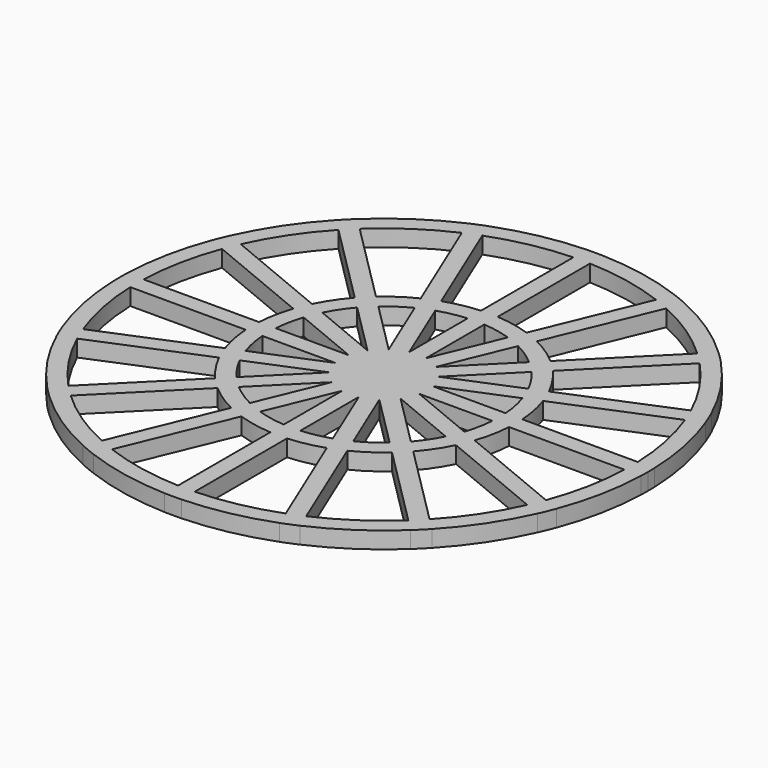
from build123d import *

# Parameters (mm, degrees)
F2_DEPTH = 3


with BuildPart() as f2:
    # F1 (on Top) → F2 (new body)
    with BuildSketch(Plane.XY):
        with BuildLine():
            ThreePointArc((-17.8209182247, 15.6995978811), (-16.7937860532, 16.7937860532), (-15.6995978811, 17.8209182247))
            Line((-15.6995978811, 17.8209182247), (-30.3877102153, 32.5090305588))
            ThreePointArc((-30.3877102153, 32.5090305588), (-31.4662517628, 31.4662517628), (-32.5090305588, 30.3877102153))
            Line((-32.5090305588, 30.3877102153), (-17.8209182247, 15.6995978811))
        make_face()
        with BuildLine():
            ThreePointArc((-15.6947385507, 13.5734182071), (-14.6724657096, 14.6724657096), (-13.5734182071, 15.6947385507))
            Line((-13.5734182071, 15.6947385507), (-15.6995978811, 17.8209182247))
            ThreePointArc((-15.6995978811, 17.8209182247), (-16.7937860532, 16.7937860532), (-17.8209182247, 15.6995978811))
            Line((-17.8209182247, 15.6995978811), (-15.6947385507, 13.5734182071))
        make_face()
        with BuildLine():
            ThreePointArc((-6.3929589411, 4.2716385975), (-5.4367646781, 5.4367646781), (-4.2716385975, 6.3929589411))
            Line((-4.2716385975, 6.3929589411), (-13.5734182071, 15.6947385507))
            ThreePointArc((-13.5734182071, 15.6947385507), (-14.6724657096, 14.6724657096), (-15.6947385507, 13.5734182071))
            Line((-15.6947385507, 13.5734182071), (-6.3929589411, 4.2716385975))
        make_face()
        with BuildLine():
            Line((-1.5, 3.6213203436), (-1.5, 7.5410092382))
            ThreePointArc((-1.5, 7.5410092382), (-2.9423558412, 7.1034753772), (-4.2716385975, 6.3929589411))
            Line((-4.2716385975, 6.3929589411), (-1.5, 3.6213203436))
        make_face()
        Polygon((3.6213203436, 1.5), (6.3929589411, 4.2716385975), (2.7716385975, 2.7716385975), (2.244908644, 1.5), align=None)
        Polygon((-1.5, -1.5), (-1.5, -2.244908644), (-0.8117941502, -1.9598444473), (-1.0022679569, -1.5), align=None)
        Polygon((-1.7693706407, -0.3519497029), (-1.9598444473, -0.8117941502), (-1.5, -1.0022679569), (-1.5, -0.6213203436), align=None)
        with BuildLine():
            ThreePointArc((-6.3929589411, -4.2716385975), (-5.4367646781, -5.4367646781), (-4.2716385975, -6.3929589411))
            Line((-4.2716385975, -6.3929589411), (-2.7716385975, -2.7716385975))
            Line((-2.7716385975, -2.7716385975), (-6.3929589411, -4.2716385975))
        make_face()
        Polygon((-2.7716385975, 2.7716385975), (-6.3929589411, 4.2716385975), (-3.6213203436, 1.5), (-2.244908644, 1.5), align=None)
        Polygon((-2.1213203436, 0), (-2.6480502971, -0.5267299535), (-1.9598444473, -0.8117941502), (-1.7693706407, -0.3519497029), align=None)
        with BuildLine():
            ThreePointArc((-7.5410092382, -1.5), (-7.1034753772, -2.9423558412), (-6.3929589411, -4.2716385975))
            Line((-6.3929589411, -4.2716385975), (-3.6213203436, -1.5))
            Line((-3.6213203436, -1.5), (-7.5410092382, -1.5))
        make_face()
        Polygon((1.5, 1.5), (1.5, 2.244908644), (0.8117941502, 1.9598444473), (1.0022679569, 1.5), align=None)
        Polygon((-2.6480502971, -0.5267299535), (-3.6213203436, -1.5), (-2.244908644, -1.5), (-1.9598444473, -0.8117941502), align=None)
        Polygon((2.244908644, -1.5), (3.6213203436, -1.5), (2.6480502971, -0.5267299535), (1.9598444473, -0.8117941502), align=None)
        with BuildLine():
            Line((-3.9196888946, 0), (-7.5410092382, 1.5))
            ThreePointArc((-7.5410092382, 1.5), (-7.6887463432, 0), (-7.5410092382, -1.5))
            Line((-7.5410092382, -1.5), (-3.9196888946, 0))
        make_face()
        with BuildLine():
            Line((0, 3.9196888946), (1.5, 7.5410092382))
            ThreePointArc((1.5, 7.5410092382), (0, 7.6887463432), (-1.5, 7.5410092382))
            Line((-1.5, 7.5410092382), (0, 3.9196888946))
        make_face()
        Polygon((-3.9196888946, 0), (-7.5410092382, -1.5), (-3.6213203436, -1.5), (-2.6480502971, -0.5267299535), align=None)
        Polygon((0, -2.1213203436), (0.5267299535, -2.6480502971), (0.8117941502, -1.9598444473), (0.3519497029, -1.7693706407), align=None)
        Polygon((2.7716385975, -2.7716385975), (6.3929589411, -4.2716385975), (3.6213203436, -1.5), (2.244908644, -1.5), align=None)
        Polygon((-2.244908644, -1.5), (-2.7716385975, -2.7716385975), (-1.5, -2.244908644), (-1.5, -1.5), align=None)
        Polygon((0.5267299535, -2.6480502971), (1.5, -3.6213203436), (1.5, -2.244908644), (0.8117941502, -1.9598444473), align=None)
        Polygon((0, 2.1213203436), (-0.5267299535, 2.6480502971), (-0.8117941502, 1.9598444473), (-0.3519497029, 1.7693706407), align=None)
        Polygon((-0.5267299535, 2.6480502971), (-1.5, 3.6213203436), (-1.5, 2.244908644), (-0.8117941502, 1.9598444473), align=None)
        Polygon((2.244908644, 1.5), (2.7716385975, 2.7716385975), (1.5, 2.244908644), (1.5, 1.5), align=None)
        Polygon((1.5, 2.244908644), (1.5, 3.6213203436), (0.5267299535, 2.6480502971), (0.8117941502, 1.9598444473), align=None)
        Polygon((0.5267299535, 2.6480502971), (0, 3.9196888946), (-0.5267299535, 2.6480502971), (0, 2.1213203436), align=None)
        with BuildLine():
            ThreePointArc((7.6887463432, 0), (7.651722928, 0.7536289293), (7.5410092382, 1.5))
            Line((7.5410092382, 1.5), (3.9196888946, 0))
            Line((3.9196888946, 0), (7.5410092382, -1.5))
            ThreePointArc((7.5410092382, -1.5), (7.651722928, -0.7536289293), (7.6887463432, 0))
        make_face()
        Polygon((1.5, 3.6213203436), (1.5, 7.5410092382), (0, 3.9196888946), (0.5267299535, 2.6480502971), align=None)
        Polygon((3.9196888946, 0), (7.5410092382, 1.5), (3.6213203436, 1.5), (2.6480502971, 0.5267299535), align=None)
        Polygon((-0.3519497029, -1.7693706407), (0, -2.1213203436), (0.3519497029, -1.7693706407), (0, -1.6235883004), align=None)
        Polygon((-1.9598444473, -0.8117941502), (-2.244908644, -1.5), (-1.5, -1.5), (-1.5, -1.0022679569), align=None)
        Polygon((1.9598444473, -0.8117941502), (2.6480502971, -0.5267299535), (2.1213203436, 0), (1.7693706407, -0.3519497029), align=None)
        Polygon((-3.6213203436, 1.5), (-7.5410092382, 1.5), (-3.9196888946, 0), (-2.6480502971, 0.5267299535), align=None)
        Polygon((-1.5, 3.6213203436), (-4.2716385975, 6.3929589411), (-2.7716385975, 2.7716385975), (-1.5, 2.244908644), align=None)
        Polygon((0, 3.9196888946), (-1.5, 7.5410092382), (-1.5, 3.6213203436), (-0.5267299535, 2.6480502971), align=None)
        Polygon((1.5, 1.0022679569), (1.5, 1.5), (1.0022679569, 1.5), (1.1480502971, 1.1480502971), align=None)
        Polygon((1.5, -1.5), (2.244908644, -1.5), (1.9598444473, -0.8117941502), (1.5, -1.0022679569), align=None)
        with BuildLine():
            ThreePointArc((6.3929589411, -4.2716385975), (7.1034753772, -2.9423558412), (7.5410092382, -1.5))
            Line((7.5410092382, -1.5), (3.6213203436, -1.5))
            Line((3.6213203436, -1.5), (6.3929589411, -4.2716385975))
        make_face()
        with BuildLine():
            Line((1.5, 3.6213203436), (4.2716385975, 6.3929589411))
            ThreePointArc((4.2716385975, 6.3929589411), (2.9423558412, 7.1034753772), (1.5, 7.5410092382))
            Line((1.5, 7.5410092382), (1.5, 3.6213203436))
        make_face()
        Polygon((0.8117941502, -1.9598444473), (1.5, -2.244908644), (1.5, -1.5), (1.0022679569, -1.5), align=None)
        Polygon((-2.244908644, 1.5), (-3.6213203436, 1.5), (-2.6480502971, 0.5267299535), (-1.9598444473, 0.8117941502), align=None)
        Polygon((-1.5, 1.5), (-2.244908644, 1.5), (-1.9598444473, 0.8117941502), (-1.5, 1.0022679569), align=None)
        Polygon((2.6480502971, 0.5267299535), (3.6213203436, 1.5), (2.244908644, 1.5), (1.9598444473, 0.8117941502), align=None)
        with BuildLine():
            Line((2.7716385975, 2.7716385975), (6.3929589411, 4.2716385975))
            ThreePointArc((6.3929589411, 4.2716385975), (5.4367646781, 5.4367646781), (4.2716385975, 6.3929589411))
            Line((4.2716385975, 6.3929589411), (2.7716385975, 2.7716385975))
        make_face()
        Polygon((0, -3.9196888946), (1.5, -7.5410092382), (1.5, -3.6213203436), (0.5267299535, -2.6480502971), align=None)
        Polygon((2.7716385975, 2.7716385975), (4.2716385975, 6.3929589411), (1.5, 3.6213203436), (1.5, 2.244908644), align=None)
        Polygon((-0.8117941502, 1.9598444473), (-1.5, 2.244908644), (-1.5, 1.5), (-1.0022679569, 1.5), align=None)
        Polygon((-2.6480502971, 0.5267299535), (-3.9196888946, 0), (-2.6480502971, -0.5267299535), (-2.1213203436, 0), align=None)
        Polygon((-3.6213203436, -1.5), (-6.3929589411, -4.2716385975), (-2.7716385975, -2.7716385975), (-2.244908644, -1.5), align=None)
        with BuildLine():
            ThreePointArc((4.2716385975, -6.3929589411), (5.4367646781, -5.4367646781), (6.3929589411, -4.2716385975))
            Line((6.3929589411, -4.2716385975), (2.7716385975, -2.7716385975))
            Line((2.7716385975, -2.7716385975), (4.2716385975, -6.3929589411))
        make_face()
        with BuildLine():
            Line((3.6213203436, 1.5), (7.5410092382, 1.5))
            ThreePointArc((7.5410092382, 1.5), (7.1034753772, 2.9423558412), (6.3929589411, 4.2716385975))
            Line((6.3929589411, 4.2716385975), (3.6213203436, 1.5))
        make_face()
        Polygon((-1.5, 2.244908644), (-2.7716385975, 2.7716385975), (-2.244908644, 1.5), (-1.5, 1.5), align=None)
        with BuildLine():
            Line((-3.6213203436, 1.5), (-6.3929589411, 4.2716385975))
            ThreePointArc((-6.3929589411, 4.2716385975), (-7.1034753772, 2.9423558412), (-7.5410092382, 1.5))
            Line((-7.5410092382, 1.5), (-3.6213203436, 1.5))
        make_face()
        Polygon((3.6213203436, -1.5), (7.5410092382, -1.5), (3.9196888946, 0), (2.6480502971, -0.5267299535), align=None)
        Polygon((-2.7716385975, -2.7716385975), (-4.2716385975, -6.3929589411), (-1.5, -3.6213203436), (-1.5, -2.244908644), align=None)
        Polygon((1.7693706407, -0.3519497029), (2.1213203436, 0), (1.7693706407, 0.3519497029), (1.6235883004, 0), align=None)
        with BuildLine():
            ThreePointArc((1.5, -7.5410092382), (2.9423558412, -7.1034753772), (4.2716385975, -6.3929589411))
            Line((4.2716385975, -6.3929589411), (1.5, -3.6213203436))
            Line((1.5, -3.6213203436), (1.5, -7.5410092382))
        make_face()
        Polygon((1.7693706407, 0.3519497029), (1.9598444473, 0.8117941502), (1.5, 1.0022679569), (1.5, 0.6213203436), align=None)
        Polygon((-1.9598444473, 0.8117941502), (-2.6480502971, 0.5267299535), (-2.1213203436, 0), (-1.7693706407, 0.3519497029), align=None)
        Polygon((-1.5, -3.6213203436), (-1.5, -7.5410092382), (0, -3.9196888946), (-0.5267299535, -2.6480502971), align=None)
        Polygon((2.6480502971, -0.5267299535), (3.9196888946, 0), (2.6480502971, 0.5267299535), (2.1213203436, 0), align=None)
        Polygon((-1.5, 1.0022679569), (-1.9598444473, 0.8117941502), (-1.7693706407, 0.3519497029), (-1.5, 0.6213203436), align=None)
        with BuildLine():
            ThreePointArc((-1.5, -7.5410092382), (0, -7.6887463432), (1.5, -7.5410092382))
            Line((1.5, -7.5410092382), (0, -3.9196888946))
            Line((0, -3.9196888946), (-1.5, -7.5410092382))
        make_face()
        Polygon((1.5, -3.6213203436), (4.2716385975, -6.3929589411), (2.7716385975, -2.7716385975), (1.5, -2.244908644), align=None)
        Polygon((-1.5, -2.244908644), (-1.5, -3.6213203436), (-0.5267299535, -2.6480502971), (-0.8117941502, -1.9598444473), align=None)
        with BuildLine():
            Line((-2.7716385975, 2.7716385975), (-4.2716385975, 6.3929589411))
            ThreePointArc((-4.2716385975, 6.3929589411), (-5.4367646781, 5.4367646781), (-6.3929589411, 4.2716385975))
            Line((-6.3929589411, 4.2716385975), (-2.7716385975, 2.7716385975))
        make_face()
        Polygon((-0.3519497029, 1.7693706407), (-0.8117941502, 1.9598444473), (-1.0022679569, 1.5), (-0.6213203436, 1.5), align=None)
        Polygon((-0.5267299535, -2.6480502971), (0, -3.9196888946), (0.5267299535, -2.6480502971), (0, -2.1213203436), align=None)
        Polygon((2.1213203436, 0), (2.6480502971, 0.5267299535), (1.9598444473, 0.8117941502), (1.7693706407, 0.3519497029), align=None)
        Polygon((0.8117941502, 1.9598444473), (0.5267299535, 2.6480502971), (0, 2.1213203436), (0.3519497029, 1.7693706407), align=None)
        Polygon((1.5, -2.244908644), (2.7716385975, -2.7716385975), (2.244908644, -1.5), (1.5, -1.5), align=None)
        Polygon((1.9598444473, 0.8117941502), (2.244908644, 1.5), (1.5, 1.5), (1.5, 1.0022679569), align=None)
        with BuildLine():
            ThreePointArc((-4.2716385975, -6.3929589411), (-2.9423558412, -7.1034753772), (-1.5, -7.5410092382))
            Line((-1.5, -7.5410092382), (-1.5, -3.6213203436))
            Line((-1.5, -3.6213203436), (-4.2716385975, -6.3929589411))
        make_face()
        Polygon((-0.8117941502, -1.9598444473), (-0.5267299535, -2.6480502971), (0, -2.1213203436), (-0.3519497029, -1.7693706407), align=None)
        Polygon((-1.0022679569, 1.5), (-1.5, 1.5), (-1.5, 1.0022679569), (-1.1480502971, 1.1480502971), align=None)
        Polygon((1.5, -1.0022679569), (1.9598444473, -0.8117941502), (1.7693706407, -0.3519497029), (1.5, -0.6213203436), align=None)
        Polygon((-1.0022679569, -1.5), (-0.8117941502, -1.9598444473), (-0.3519497029, -1.7693706407), (-0.6213203436, -1.5), align=None)
        Polygon((1.3858192988, -0.5740251485), (1.5, -0.2983685511), (1.5, 0), (-1.5, 0), (-1.5, -0.2983685511), (-1.3858192988, -0.5740251485), (-1.2716385975, -0.849681746), (-1.0606601718, -1.0606601718), (-0.849681746, -1.2716385975), (-0.5740251485, -1.3858192988), (-0.2983685511, -1.5), (0, -1.5), (0.2983685511, -1.5), (0.5740251485, -1.3858192988), (0.849681746, -1.2716385975), (1.0606601718, -1.0606601718), (1.2716385975, -0.849681746), align=None)
        Polygon((0.3519497029, 1.7693706407), (0, 2.1213203436), (-0.3519497029, 1.7693706407), (0, 1.6235883004), align=None)
        Polygon((1.0022679569, -1.5), (1.5, -1.5), (1.5, -1.0022679569), (1.1480502971, -1.1480502971), align=None)
        Polygon((1.5, 0), (1.5, 0.2983685511), (1.3858192988, 0.5740251485), (1.2716385975, 0.849681746), (1.0606601718, 1.0606601718), (0.849681746, 1.2716385975), (0.5740251485, 1.3858192988), (0.2983685511, 1.5), (0, 1.5), (-0.2983685511, 1.5), (-0.5740251485, 1.3858192988), (-0.849681746, 1.2716385975), (-1.0606601718, 1.0606601718), (-1.2716385975, 0.849681746), (-1.3858192988, 0.5740251485), (-1.5, 0.2983685511), (-1.5, 0), align=None)
        Polygon((-1.5, -1.0022679569), (-1.5, -1.5), (-1.0022679569, -1.5), (-1.1480502971, -1.1480502971), align=None)
        Polygon((1.0022679569, 1.5), (0.8117941502, 1.9598444473), (0.3519497029, 1.7693706407), (0.6213203436, 1.5), align=None)
        Polygon((-1.7693706407, 0.3519497029), (-2.1213203436, 0), (-1.7693706407, -0.3519497029), (-1.6235883004, 0), align=None)
        Polygon((-1.2716385975, -0.849681746), (-1.1480502971, -1.1480502971), (-0.849681746, -1.2716385975), (-1.0606601718, -1.0606601718), align=None)
        Polygon((-0.2983685511, -1.5), (0, -1.6235883004), (0.2983685511, -1.5), (0, -1.5), align=None)
        Polygon((0.3519497029, -1.7693706407), (0.8117941502, -1.9598444473), (1.0022679569, -1.5), (0.6213203436, -1.5), align=None)
        Polygon((0.2983685511, 1.5), (0, 1.6235883004), (-0.2983685511, 1.5), (0, 1.5), align=None)
        Polygon((1.2716385975, 0.849681746), (1.1480502971, 1.1480502971), (0.849681746, 1.2716385975), (1.0606601718, 1.0606601718), align=None)
        Polygon((0, -1.6235883004), (0.3519497029, -1.7693706407), (0.6213203436, -1.5), (0.2983685511, -1.5), align=None)
        Polygon((-0.2983685511, 1.5), (-0.6213203436, 1.5), (-0.849681746, 1.2716385975), (-0.5740251485, 1.3858192988), align=None)
        Polygon((0.6213203436, -1.5), (1.0022679569, -1.5), (1.1480502971, -1.1480502971), (0.849681746, -1.2716385975), align=None)
        Polygon((-0.6213203436, 1.5), (-1.0022679569, 1.5), (-1.1480502971, 1.1480502971), (-0.849681746, 1.2716385975), align=None)
        Polygon((-1.5, -0.6213203436), (-1.5, -1.0022679569), (-1.1480502971, -1.1480502971), (-1.2716385975, -0.849681746), align=None)
        Polygon((-1.2716385975, 0.849681746), (-1.5, 0.6213203436), (-1.5, 0.2983685511), (-1.3858192988, 0.5740251485), align=None)
        Polygon((1.5, 0.2983685511), (1.5, 0.6213203436), (1.2716385975, 0.849681746), (1.3858192988, 0.5740251485), align=None)
        Polygon((1.2716385975, -0.849681746), (1.5, -0.6213203436), (1.5, -0.2983685511), (1.3858192988, -0.5740251485), align=None)
        Polygon((-0.6213203436, -1.5), (-0.3519497029, -1.7693706407), (0, -1.6235883004), (-0.2983685511, -1.5), align=None)
        Polygon((1.1480502971, -1.1480502971), (1.5, -1.0022679569), (1.5, -0.6213203436), (1.2716385975, -0.849681746), align=None)
        Polygon((-1.1480502971, 1.1480502971), (-1.5, 1.0022679569), (-1.5, 0.6213203436), (-1.2716385975, 0.849681746), align=None)
        Polygon((1.1480502971, 1.1480502971), (1.0022679569, 1.5), (0.6213203436, 1.5), (0.849681746, 1.2716385975), align=None)
        Polygon((0.849681746, -1.2716385975), (1.1480502971, -1.1480502971), (1.2716385975, -0.849681746), (1.0606601718, -1.0606601718), align=None)
        Polygon((-0.849681746, -1.2716385975), (-0.6213203436, -1.5), (-0.2983685511, -1.5), (-0.5740251485, -1.3858192988), align=None)
        Polygon((0, 1.6235883004), (-0.3519497029, 1.7693706407), (-0.6213203436, 1.5), (-0.2983685511, 1.5), align=None)
        Polygon((-0.849681746, 1.2716385975), (-1.1480502971, 1.1480502971), (-1.2716385975, 0.849681746), (-1.0606601718, 1.0606601718), align=None)
        Polygon((1.5, 0.6213203436), (1.5, 1.0022679569), (1.1480502971, 1.1480502971), (1.2716385975, 0.849681746), align=None)
        Polygon((-1.1480502971, -1.1480502971), (-1.0022679569, -1.5), (-0.6213203436, -1.5), (-0.849681746, -1.2716385975), align=None)
        Polygon((0.2983685511, -1.5), (0.6213203436, -1.5), (0.849681746, -1.2716385975), (0.5740251485, -1.3858192988), align=None)
        Polygon((0.849681746, 1.2716385975), (0.6213203436, 1.5), (0.2983685511, 1.5), (0.5740251485, 1.3858192988), align=None)
        Polygon((-1.5, -0.6213203436), (-1.5, -0.2983685511), (-1.6235883004, 0), (-1.7693706407, -0.3519497029), align=None)
        Polygon((0.6213203436, 1.5), (0.3519497029, 1.7693706407), (0, 1.6235883004), (0.2983685511, 1.5), align=None)
        Polygon((-1.5, -0.2983685511), (-1.5, 0), (-1.5, 0.2983685511), (-1.6235883004, 0), align=None)
        Polygon((1.5, -0.6213203436), (1.7693706407, -0.3519497029), (1.6235883004, 0), (1.5, -0.2983685511), align=None)
        Polygon((-1.3858192988, -0.5740251485), (-1.5, -0.2983685511), (-1.5, -0.6213203436), (-1.2716385975, -0.849681746), align=None)
        Polygon((1.6235883004, 0), (1.7693706407, 0.3519497029), (1.5, 0.6213203436), (1.5, 0.2983685511), align=None)
        Polygon((-1.5, 0.6213203436), (-1.7693706407, 0.3519497029), (-1.6235883004, 0), (-1.5, 0.2983685511), align=None)
        Polygon((1.5, -0.2983685511), (1.6235883004, 0), (1.5, 0.2983685511), (1.5, 0), align=None)
        with BuildLine():
            ThreePointArc((-4.2716385975, 6.3929589411), (-2.9423558412, 7.1034753772), (-1.5, 7.5410092382))
            Line((-1.5, 7.5410092382), (-6.5340868491, 19.6943699835))
            ThreePointArc((-6.5340868491, 19.6943699835), (-7.9406812216, 19.1705002996), (-9.3057254467, 18.5463196864))
            Line((-9.3057254467, 18.5463196864), (-4.2716385975, 6.3929589411))
        make_face()
        with BuildLine():
            ThreePointArc((-9.3057254467, 18.5463196864), (-7.9406812216, 19.1705002996), (-6.5340868491, 19.6943699835))
            Line((-6.5340868491, 19.6943699835), (-7.6847669969, 22.4723576022))
            ThreePointArc((-7.6847669969, 22.4723576022), (-9.0887315187, 21.9421388971), (-10.4564055944, 21.3243073052))
            Line((-10.4564055944, 21.3243073052), (-9.3057254467, 18.5463196864))
        make_face()
        with BuildLine():
            Line((-7.6847669969, 22.4723576022), (-15.6339161106, 41.663301202))
            ThreePointArc((-15.6339161106, 41.663301202), (-17.0294127402, 41.1126391968), (-18.4055547082, 40.5152509049))
            Line((-18.4055547082, 40.5152509049), (-10.4564055944, 21.3243073052))
            ThreePointArc((-10.4564055944, 21.3243073052), (-9.0887315187, 21.9421388971), (-7.6847669969, 22.4723576022))
        make_face()
        with BuildLine():
            Line((1.5, 23.7025842473), (1.5, 44.4747119159))
            ThreePointArc((1.5, 44.4747119159), (0, 44.5), (-1.5, 44.4747119159))
            Line((-1.5, 44.4747119159), (-1.5, 23.7025842473))
            ThreePointArc((-1.5, 23.7025842473), (0, 23.75), (1.5, 23.7025842473))
        make_face()
        with BuildLine():
            ThreePointArc((-1.5, 20.6957121163), (0, 20.75), (1.5, 20.6957121163))
            Line((1.5, 20.6957121163), (1.5, 23.7025842473))
            ThreePointArc((1.5, 23.7025842473), (0, 23.75), (-1.5, 23.7025842473))
            Line((-1.5, 23.7025842473), (-1.5, 20.6957121163))
        make_face()
        with BuildLine():
            ThreePointArc((1.5, 7.5410092382), (2.9423558412, 7.1034753772), (4.2716385975, 6.3929589411))
            Line((4.2716385975, 6.3929589411), (9.3057254467, 18.5463196864))
            ThreePointArc((9.3057254467, 18.5463196864), (7.9406812216, 19.1705002996), (6.5340868491, 19.6943699835))
            Line((6.5340868491, 19.6943699835), (1.5, 7.5410092382))
        make_face()
        with BuildLine():
            Line((9.3057254467, 18.5463196864), (10.4564055944, 21.3243073052))
            ThreePointArc((10.4564055944, 21.3243073052), (9.0887315187, 21.9421388971), (7.6847669969, 22.4723576022))
            Line((7.6847669969, 22.4723576022), (6.5340868491, 19.6943699835))
            ThreePointArc((6.5340868491, 19.6943699835), (7.9406812216, 19.1705002996), (9.3057254467, 18.5463196864))
        make_face()
        with BuildLine():
            Line((15.6947385507, 13.5734182071), (17.8209182247, 15.6995978811))
            ThreePointArc((17.8209182247, 15.6995978811), (16.7937860532, 16.7937860532), (15.6995978811, 17.8209182247))
            Line((15.6995978811, 17.8209182247), (13.5734182071, 15.6947385507))
            ThreePointArc((13.5734182071, 15.6947385507), (14.6724657096, 14.6724657096), (15.6947385507, 13.5734182071))
        make_face()
        with BuildLine():
            ThreePointArc((4.2716385975, 6.3929589411), (5.4367646781, 5.4367646781), (6.3929589411, 4.2716385975))
            Line((6.3929589411, 4.2716385975), (15.6947385507, 13.5734182071))
            ThreePointArc((15.6947385507, 13.5734182071), (14.6724657096, 14.6724657096), (13.5734182071, 15.6947385507))
            Line((13.5734182071, 15.6947385507), (4.2716385975, 6.3929589411))
        make_face()
        with BuildLine():
            Line((19.6943699835, 6.5340868491), (22.4723576022, 7.6847669969))
            ThreePointArc((22.4723576022, 7.6847669969), (21.9421388971, 9.0887315187), (21.3243073052, 10.4564055944))
            Line((21.3243073052, 10.4564055944), (18.5463196864, 9.3057254467))
            ThreePointArc((18.5463196864, 9.3057254467), (19.1705002996, 7.9406812216), (19.6943699835, 6.5340868491))
        make_face()
        with BuildLine():
            Line((22.4723576022, 7.6847669969), (41.663301202, 15.6339161106))
            ThreePointArc((41.663301202, 15.6339161106), (41.1126391968, 17.0294127402), (40.5152509049, 18.4055547082))
            Line((40.5152509049, 18.4055547082), (21.3243073052, 10.4564055944))
            ThreePointArc((21.3243073052, 10.4564055944), (21.9421388971, 9.0887315187), (22.4723576022, 7.6847669969))
        make_face()
        with BuildLine():
            Line((7.5410092382, 1.5), (19.6943699835, 6.5340868491))
            ThreePointArc((19.6943699835, 6.5340868491), (19.1705002996, 7.9406812216), (18.5463196864, 9.3057254467))
            Line((18.5463196864, 9.3057254467), (6.3929589411, 4.2716385975))
            ThreePointArc((6.3929589411, 4.2716385975), (7.1034753772, 2.9423558412), (7.5410092382, 1.5))
        make_face()
        with BuildLine():
            ThreePointArc((23.75, 0), (23.7381431021, 0.7503746154), (23.7025842473, 1.5))
            Line((23.7025842473, 1.5), (20.6957121163, 1.5))
            ThreePointArc((20.6957121163, 1.5), (20.7364235876, 0.750491035), (20.75, 0))
            ThreePointArc((20.75, 0), (20.7364235876, -0.750491035), (20.6957121163, -1.5))
            Line((20.6957121163, -1.5), (23.7025842473, -1.5))
            ThreePointArc((23.7025842473, -1.5), (23.7381431021, -0.7503746154), (23.75, 0))
        make_face()
        with BuildLine():
            ThreePointArc((44.5, 0), (44.4936775298, 0.7501065736), (44.4747119159, 1.5))
            Line((44.4747119159, 1.5), (23.7025842473, 1.5))
            ThreePointArc((23.7025842473, 1.5), (23.7381431021, 0.7503746154), (23.75, 0))
            ThreePointArc((23.75, 0), (23.7381431021, -0.7503746154), (23.7025842473, -1.5))
            Line((23.7025842473, -1.5), (44.4747119159, -1.5))
            ThreePointArc((44.4747119159, -1.5), (44.4936775298, -0.7501065736), (44.5, 0))
        make_face()
        with BuildLine():
            ThreePointArc((20.75, 0), (20.7364235876, 0.750491035), (20.6957121163, 1.5))
            Line((20.6957121163, 1.5), (7.5410092382, 1.5))
            ThreePointArc((7.5410092382, 1.5), (7.651722928, 0.7536289293), (7.6887463432, 0))
            ThreePointArc((7.6887463432, 0), (7.651722928, -0.7536289293), (7.5410092382, -1.5))
            Line((7.5410092382, -1.5), (20.6957121163, -1.5))
            ThreePointArc((20.6957121163, -1.5), (20.7364235876, -0.750491035), (20.75, 0))
        make_face()
        with BuildLine():
            ThreePointArc((18.5463196864, -9.3057254467), (19.1705002996, -7.9406812216), (19.6943699835, -6.5340868491))
            Line((19.6943699835, -6.5340868491), (7.5410092382, -1.5))
            ThreePointArc((7.5410092382, -1.5), (7.1034753772, -2.9423558412), (6.3929589411, -4.2716385975))
            Line((6.3929589411, -4.2716385975), (18.5463196864, -9.3057254467))
        make_face()
        with BuildLine():
            ThreePointArc((21.3243073052, -10.4564055944), (21.9421388971, -9.0887315187), (22.4723576022, -7.6847669969))
            Line((22.4723576022, -7.6847669969), (19.6943699835, -6.5340868491))
            ThreePointArc((19.6943699835, -6.5340868491), (19.1705002996, -7.9406812216), (18.5463196864, -9.3057254467))
            Line((18.5463196864, -9.3057254467), (21.3243073052, -10.4564055944))
        make_face()
        with BuildLine():
            ThreePointArc((40.5152509049, -18.4055547082), (41.1126391968, -17.0294127402), (41.663301202, -15.6339161106))
            Line((41.663301202, -15.6339161106), (22.4723576022, -7.6847669969))
            ThreePointArc((22.4723576022, -7.6847669969), (21.9421388971, -9.0887315187), (21.3243073052, -10.4564055944))
            Line((21.3243073052, -10.4564055944), (40.5152509049, -18.4055547082))
        make_face()
        with BuildLine():
            ThreePointArc((30.3877102153, -32.5090305588), (31.4662517628, -31.4662517628), (32.5090305588, -30.3877102153))
            Line((32.5090305588, -30.3877102153), (17.8209182247, -15.6995978811))
            ThreePointArc((17.8209182247, -15.6995978811), (16.7937860532, -16.7937860532), (15.6995978811, -17.8209182247))
            Line((15.6995978811, -17.8209182247), (30.3877102153, -32.5090305588))
        make_face()
        with BuildLine():
            ThreePointArc((15.6995978811, -17.8209182247), (16.7937860532, -16.7937860532), (17.8209182247, -15.6995978811))
            Line((17.8209182247, -15.6995978811), (15.6947385507, -13.5734182071))
            ThreePointArc((15.6947385507, -13.5734182071), (14.6724657096, -14.6724657096), (13.5734182071, -15.6947385507))
            Line((13.5734182071, -15.6947385507), (15.6995978811, -17.8209182247))
        make_face()
        with BuildLine():
            Line((15.6947385507, -13.5734182071), (6.3929589411, -4.2716385975))
            ThreePointArc((6.3929589411, -4.2716385975), (5.4367646781, -5.4367646781), (4.2716385975, -6.3929589411))
            Line((4.2716385975, -6.3929589411), (13.5734182071, -15.6947385507))
            ThreePointArc((13.5734182071, -15.6947385507), (14.6724657096, -14.6724657096), (15.6947385507, -13.5734182071))
        make_face()
        with BuildLine():
            Line((9.3057254467, -18.5463196864), (4.2716385975, -6.3929589411))
            ThreePointArc((4.2716385975, -6.3929589411), (2.9423558412, -7.1034753772), (1.5, -7.5410092382))
            Line((1.5, -7.5410092382), (6.5340868491, -19.6943699835))
            ThreePointArc((6.5340868491, -19.6943699835), (7.9406812216, -19.1705002996), (9.3057254467, -18.5463196864))
        make_face()
        with BuildLine():
            ThreePointArc((7.6847669969, -22.4723576022), (9.0887315187, -21.9421388971), (10.4564055944, -21.3243073052))
            Line((10.4564055944, -21.3243073052), (9.3057254467, -18.5463196864))
            ThreePointArc((9.3057254467, -18.5463196864), (7.9406812216, -19.1705002996), (6.5340868491, -19.6943699835))
            Line((6.5340868491, -19.6943699835), (7.6847669969, -22.4723576022))
        make_face()
        with BuildLine():
            ThreePointArc((15.6339161106, -41.663301202), (17.0294127402, -41.1126391968), (18.4055547082, -40.5152509049))
            Line((18.4055547082, -40.5152509049), (10.4564055944, -21.3243073052))
            ThreePointArc((10.4564055944, -21.3243073052), (9.0887315187, -21.9421388971), (7.6847669969, -22.4723576022))
            Line((7.6847669969, -22.4723576022), (15.6339161106, -41.663301202))
        make_face()
        with BuildLine():
            ThreePointArc((-1.5, -44.4747119159), (0, -44.5), (1.5, -44.4747119159))
            Line((1.5, -44.4747119159), (1.5, -23.7025842473))
            ThreePointArc((1.5, -23.7025842473), (0, -23.75), (-1.5, -23.7025842473))
            Line((-1.5, -23.7025842473), (-1.5, -44.4747119159))
        make_face()
        with BuildLine():
            Line((1.5, -23.7025842473), (1.5, -20.6957121163))
            ThreePointArc((1.5, -20.6957121163), (0, -20.75), (-1.5, -20.6957121163))
            Line((-1.5, -20.6957121163), (-1.5, -23.7025842473))
            ThreePointArc((-1.5, -23.7025842473), (0, -23.75), (1.5, -23.7025842473))
        make_face()
        with BuildLine():
            Line((1.5, -20.6957121163), (1.5, -7.5410092382))
            ThreePointArc((1.5, -7.5410092382), (0, -7.6887463432), (-1.5, -7.5410092382))
            Line((-1.5, -7.5410092382), (-1.5, -20.6957121163))
            ThreePointArc((-1.5, -20.6957121163), (0, -20.75), (1.5, -20.6957121163))
        make_face()
        with BuildLine():
            Line((-6.5340868491, -19.6943699835), (-1.5, -7.5410092382))
            ThreePointArc((-1.5, -7.5410092382), (-2.9423558412, -7.1034753772), (-4.2716385975, -6.3929589411))
            Line((-4.2716385975, -6.3929589411), (-9.3057254467, -18.5463196864))
            ThreePointArc((-9.3057254467, -18.5463196864), (-7.9406812216, -19.1705002996), (-6.5340868491, -19.6943699835))
        make_face()
        with BuildLine():
            Line((-7.6847669969, -22.4723576022), (-6.5340868491, -19.6943699835))
            ThreePointArc((-6.5340868491, -19.6943699835), (-7.9406812216, -19.1705002996), (-9.3057254467, -18.5463196864))
            Line((-9.3057254467, -18.5463196864), (-10.4564055944, -21.3243073052))
            ThreePointArc((-10.4564055944, -21.3243073052), (-9.0887315187, -21.9421388971), (-7.6847669969, -22.4723576022))
        make_face()
        with BuildLine():
            ThreePointArc((-19.5542165204, -43.2883658305), (-18.1774630373, -43.8842777943), (-16.7825779229, -44.4364161276))
            Line((-16.7825779229, -44.4364161276), (-15.6339161106, -41.663301202))
            ThreePointArc((-15.6339161106, -41.663301202), (-17.0294127402, -41.1126391968), (-18.4055547082, -40.5152509049))
            Line((-18.4055547082, -40.5152509049), (-19.5542165204, -43.2883658305))
        make_face()
        with BuildLine():
            ThreePointArc((-34.631480835, -32.5101604914), (-33.5875721064, -33.5875721064), (-32.5101604914, -34.631480835))
            Line((-32.5101604914, -34.631480835), (-30.3877102153, -32.5090305588))
            ThreePointArc((-30.3877102153, -32.5090305588), (-31.4662517628, -31.4662517628), (-32.5090305588, -30.3877102153))
            Line((-32.5090305588, -30.3877102153), (-34.631480835, -32.5101604914))
        make_face()
        with BuildLine():
            Line((-30.3877102153, -32.5090305588), (-15.6995978811, -17.8209182247))
            ThreePointArc((-15.6995978811, -17.8209182247), (-16.7937860532, -16.7937860532), (-17.8209182247, -15.6995978811))
            Line((-17.8209182247, -15.6995978811), (-32.5090305588, -30.3877102153))
            ThreePointArc((-32.5090305588, -30.3877102153), (-31.4662517628, -31.4662517628), (-30.3877102153, -32.5090305588))
        make_face()
        with BuildLine():
            Line((-15.6995978811, -17.8209182247), (-13.5734182071, -15.6947385507))
            ThreePointArc((-13.5734182071, -15.6947385507), (-14.6724657096, -14.6724657096), (-15.6947385507, -13.5734182071))
            Line((-15.6947385507, -13.5734182071), (-17.8209182247, -15.6995978811))
            ThreePointArc((-17.8209182247, -15.6995978811), (-16.7937860532, -16.7937860532), (-15.6995978811, -17.8209182247))
        make_face()
        with BuildLine():
            Line((-13.5734182071, -15.6947385507), (-4.2716385975, -6.3929589411))
            ThreePointArc((-4.2716385975, -6.3929589411), (-5.4367646781, -5.4367646781), (-6.3929589411, -4.2716385975))
            Line((-6.3929589411, -4.2716385975), (-15.6947385507, -13.5734182071))
            ThreePointArc((-15.6947385507, -13.5734182071), (-14.6724657096, -14.6724657096), (-13.5734182071, -15.6947385507))
        make_face()
        with BuildLine():
            ThreePointArc((-15.6947385507, -13.5734182071), (-17.2529944553, -11.5280823352), (-18.5463196864, -9.3057254467))
            Line((-18.5463196864, -9.3057254467), (-21.3243073052, -10.4564055944))
            ThreePointArc((-21.3243073052, -10.4564055944), (-19.7474032922, -13.1947930342), (-17.8209182247, -15.6995978811))
            Line((-17.8209182247, -15.6995978811), (-15.6947385507, -13.5734182071))
        make_face()
        with BuildLine():
            Line((-21.3243073052, -10.4564055944), (-18.5463196864, -9.3057254467))
            ThreePointArc((-18.5463196864, -9.3057254467), (-19.1705002996, -7.9406812216), (-19.6943699835, -6.5340868491))
            Line((-19.6943699835, -6.5340868491), (-22.4723576022, -7.6847669969))
            ThreePointArc((-22.4723576022, -7.6847669969), (-21.9421388971, -9.0887315187), (-21.3243073052, -10.4564055944))
        make_face()
        with BuildLine():
            ThreePointArc((-19.6943699835, -6.5340868491), (-20.3512945684, -4.0481241818), (-20.6957121163, -1.5))
            Line((-20.6957121163, -1.5), (-23.7025842473, -1.5))
            ThreePointArc((-23.7025842473, -1.5), (-23.2936504096, -4.6333951479), (-22.4723576022, -7.6847669969))
            Line((-22.4723576022, -7.6847669969), (-19.6943699835, -6.5340868491))
        make_face()
        with BuildLine():
            ThreePointArc((-20.6957121163, -1.5), (-20.75, 0), (-20.6957121163, 1.5))
            Line((-20.6957121163, 1.5), (-23.7025842473, 1.5))
            ThreePointArc((-23.7025842473, 1.5), (-23.75, 0), (-23.7025842473, -1.5))
            Line((-23.7025842473, -1.5), (-20.6957121163, -1.5))
        make_face()
        with BuildLine():
            ThreePointArc((-20.6957121163, 1.5), (-20.3512945684, 4.0481241818), (-19.6943699835, 6.5340868491))
            Line((-19.6943699835, 6.5340868491), (-22.4723576022, 7.6847669969))
            ThreePointArc((-22.4723576022, 7.6847669969), (-23.2936504096, 4.6333951479), (-23.7025842473, 1.5))
            Line((-23.7025842473, 1.5), (-20.6957121163, 1.5))
        make_face()
        with BuildLine():
            ThreePointArc((-19.6943699835, 6.5340868491), (-19.1705002996, 7.9406812216), (-18.5463196864, 9.3057254467))
            Line((-18.5463196864, 9.3057254467), (-21.3243073052, 10.4564055944))
            ThreePointArc((-21.3243073052, 10.4564055944), (-21.9421388971, 9.0887315187), (-22.4723576022, 7.6847669969))
            Line((-22.4723576022, 7.6847669969), (-19.6943699835, 6.5340868491))
        make_face()
        with BuildLine():
            ThreePointArc((-18.5463196864, 9.3057254467), (-17.2529944553, 11.5280823352), (-15.6947385507, 13.5734182071))
            Line((-15.6947385507, 13.5734182071), (-17.8209182247, 15.6995978811))
            ThreePointArc((-17.8209182247, 15.6995978811), (-19.7474032922, 13.1947930342), (-21.3243073052, 10.4564055944))
            Line((-21.3243073052, 10.4564055944), (-18.5463196864, 9.3057254467))
        make_face()
        with BuildLine():
            ThreePointArc((-13.5734182071, 15.6947385507), (-11.5280823352, 17.2529944553), (-9.3057254467, 18.5463196864))
            Line((-9.3057254467, 18.5463196864), (-10.4564055944, 21.3243073052))
            ThreePointArc((-10.4564055944, 21.3243073052), (-13.1947930342, 19.7474032922), (-15.6995978811, 17.8209182247))
            Line((-15.6995978811, 17.8209182247), (-13.5734182071, 15.6947385507))
        make_face()
        with BuildLine():
            ThreePointArc((-6.5340868491, 19.6943699835), (-4.0481241818, 20.3512945684), (-1.5, 20.6957121163))
            Line((-1.5, 20.6957121163), (-1.5, 23.7025842473))
            ThreePointArc((-1.5, 23.7025842473), (-4.6333951479, 23.2936504096), (-7.6847669969, 22.4723576022))
            Line((-7.6847669969, 22.4723576022), (-6.5340868491, 19.6943699835))
        make_face()
        with BuildLine():
            Line((6.5340868491, 19.6943699835), (7.6847669969, 22.4723576022))
            ThreePointArc((7.6847669969, 22.4723576022), (4.6333951479, 23.2936504096), (1.5, 23.7025842473))
            Line((1.5, 23.7025842473), (1.5, 20.6957121163))
            ThreePointArc((1.5, 20.6957121163), (4.0481241818, 20.3512945684), (6.5340868491, 19.6943699835))
        make_face()
        with BuildLine():
            ThreePointArc((-1.5, 7.5410092382), (0, 7.6887463432), (1.5, 7.5410092382))
            Line((1.5, 7.5410092382), (1.5, 20.6957121163))
            ThreePointArc((1.5, 20.6957121163), (0, 20.75), (-1.5, 20.6957121163))
            Line((-1.5, 20.6957121163), (-1.5, 7.5410092382))
        make_face()
        with BuildLine():
            Line((10.4564055944, 21.3243073052), (18.4055547082, 40.5152509049))
            ThreePointArc((18.4055547082, 40.5152509049), (17.0294127402, 41.1126391968), (15.6339161106, 41.663301202))
            Line((15.6339161106, 41.663301202), (7.6847669969, 22.4723576022))
            ThreePointArc((7.6847669969, 22.4723576022), (9.0887315187, 21.9421388971), (10.4564055944, 21.3243073052))
        make_face()
        with BuildLine():
            Line((17.8209182247, 15.6995978811), (32.5090305588, 30.3877102153))
            ThreePointArc((32.5090305588, 30.3877102153), (31.4662517628, 31.4662517628), (30.3877102153, 32.5090305588))
            Line((30.3877102153, 32.5090305588), (15.6995978811, 17.8209182247))
            ThreePointArc((15.6995978811, 17.8209182247), (16.7937860532, 16.7937860532), (17.8209182247, 15.6995978811))
        make_face()
        with BuildLine():
            Line((32.5090305588, 30.3877102153), (34.631480835, 32.5101604914))
            ThreePointArc((34.631480835, 32.5101604914), (33.5875721064, 33.5875721064), (32.5101604914, 34.631480835))
            Line((32.5101604914, 34.631480835), (30.3877102153, 32.5090305588))
            ThreePointArc((30.3877102153, 32.5090305588), (31.4662517628, 31.4662517628), (32.5090305588, 30.3877102153))
        make_face()
        with BuildLine():
            Line((40.5152509049, 18.4055547082), (43.2883658305, 19.5542165204))
            ThreePointArc((43.2883658305, 19.5542165204), (39.4948065844, 26.3895860684), (34.631480835, 32.5101604914))
            Line((34.631480835, 32.5101604914), (32.5090305588, 30.3877102153))
            ThreePointArc((32.5090305588, 30.3877102153), (37.0003977475, 24.7228753694), (40.5152509049, 18.4055547082))
        make_face()
        with BuildLine():
            Line((41.663301202, 15.6339161106), (44.4364161276, 16.7825779229))
            ThreePointArc((44.4364161276, 16.7825779229), (43.8842777943, 18.1774630373), (43.2883658305, 19.5542165204))
            Line((43.2883658305, 19.5542165204), (40.5152509049, 18.4055547082))
            ThreePointArc((40.5152509049, 18.4055547082), (41.1126391968, 17.0294127402), (41.663301202, 15.6339161106))
        make_face()
        with BuildLine():
            Line((44.4747119159, 1.5), (47.4763098819, 1.5))
            ThreePointArc((47.4763098819, 1.5), (46.5873008192, 9.2667902958), (44.4364161276, 16.7825779229))
            Line((44.4364161276, 16.7825779229), (41.663301202, 15.6339161106))
            ThreePointArc((41.663301202, 15.6339161106), (43.6449449779, 8.6815193297), (44.4747119159, 1.5))
        make_face()
        with BuildLine():
            ThreePointArc((47.4763098819, -1.5), (47.4940771012, -0.7500935311), (47.5, 0))
            ThreePointArc((47.5, 0), (47.4940771012, 0.7500935311), (47.4763098819, 1.5))
            Line((47.4763098819, 1.5), (44.4747119159, 1.5))
            ThreePointArc((44.4747119159, 1.5), (44.4936775298, 0.7501065736), (44.5, 0))
            ThreePointArc((44.5, 0), (44.4936775298, -0.7501065736), (44.4747119159, -1.5))
            Line((44.4747119159, -1.5), (47.4763098819, -1.5))
        make_face()
        with BuildLine():
            ThreePointArc((44.4364161276, -16.7825779229), (46.5873008192, -9.2667902958), (47.4763098819, -1.5))
            Line((47.4763098819, -1.5), (44.4747119159, -1.5))
            ThreePointArc((44.4747119159, -1.5), (43.6449449779, -8.6815193297), (41.663301202, -15.6339161106))
            Line((41.663301202, -15.6339161106), (44.4364161276, -16.7825779229))
        make_face()
        with BuildLine():
            ThreePointArc((43.2883658305, -19.5542165204), (43.8842777943, -18.1774630373), (44.4364161276, -16.7825779229))
            Line((44.4364161276, -16.7825779229), (41.663301202, -15.6339161106))
            ThreePointArc((41.663301202, -15.6339161106), (41.1126391968, -17.0294127402), (40.5152509049, -18.4055547082))
            Line((40.5152509049, -18.4055547082), (43.2883658305, -19.5542165204))
        make_face()
        with BuildLine():
            ThreePointArc((34.631480835, -32.5101604914), (39.4948065844, -26.3895860684), (43.2883658305, -19.5542165204))
            Line((43.2883658305, -19.5542165204), (40.5152509049, -18.4055547082))
            ThreePointArc((40.5152509049, -18.4055547082), (37.0003977475, -24.7228753694), (32.5090305588, -30.3877102153))
            Line((32.5090305588, -30.3877102153), (34.631480835, -32.5101604914))
        make_face()
        with BuildLine():
            ThreePointArc((32.5101604914, -34.631480835), (33.5875721064, -33.5875721064), (34.631480835, -32.5101604914))
            Line((34.631480835, -32.5101604914), (32.5090305588, -30.3877102153))
            ThreePointArc((32.5090305588, -30.3877102153), (31.4662517628, -31.4662517628), (30.3877102153, -32.5090305588))
            Line((30.3877102153, -32.5090305588), (32.5101604914, -34.631480835))
        make_face()
        with BuildLine():
            ThreePointArc((19.5542165204, -43.2883658305), (26.3895860684, -39.4948065844), (32.5101604914, -34.631480835))
            Line((32.5101604914, -34.631480835), (30.3877102153, -32.5090305588))
            ThreePointArc((30.3877102153, -32.5090305588), (24.7228753694, -37.0003977475), (18.4055547082, -40.5152509049))
            Line((18.4055547082, -40.5152509049), (19.5542165204, -43.2883658305))
        make_face()
        with BuildLine():
            ThreePointArc((16.7825779229, -44.4364161276), (18.1774630373, -43.8842777943), (19.5542165204, -43.2883658305))
            Line((19.5542165204, -43.2883658305), (18.4055547082, -40.5152509049))
            ThreePointArc((18.4055547082, -40.5152509049), (17.0294127402, -41.1126391968), (15.6339161106, -41.663301202))
            Line((15.6339161106, -41.663301202), (16.7825779229, -44.4364161276))
        make_face()
        with BuildLine():
            ThreePointArc((1.5, -47.4763098819), (9.2667902958, -46.5873008192), (16.7825779229, -44.4364161276))
            Line((16.7825779229, -44.4364161276), (15.6339161106, -41.663301202))
            ThreePointArc((15.6339161106, -41.663301202), (8.6815193297, -43.6449449779), (1.5, -44.4747119159))
            Line((1.5, -44.4747119159), (1.5, -47.4763098819))
        make_face()
        with BuildLine():
            ThreePointArc((-1.5, -47.4763098819), (0, -47.5), (1.5, -47.4763098819))
            Line((1.5, -47.4763098819), (1.5, -44.4747119159))
            ThreePointArc((1.5, -44.4747119159), (0, -44.5), (-1.5, -44.4747119159))
            Line((-1.5, -44.4747119159), (-1.5, -47.4763098819))
        make_face()
        with BuildLine():
            ThreePointArc((-16.7825779229, -44.4364161276), (-9.2667902958, -46.5873008192), (-1.5, -47.4763098819))
            Line((-1.5, -47.4763098819), (-1.5, -44.4747119159))
            ThreePointArc((-1.5, -44.4747119159), (-8.6815193297, -43.6449449779), (-15.6339161106, -41.663301202))
            Line((-15.6339161106, -41.663301202), (-16.7825779229, -44.4364161276))
        make_face()
        with BuildLine():
            ThreePointArc((-18.4055547082, -40.5152509049), (-17.0294127402, -41.1126391968), (-15.6339161106, -41.663301202))
            Line((-15.6339161106, -41.663301202), (-7.6847669969, -22.4723576022))
            ThreePointArc((-7.6847669969, -22.4723576022), (-9.0887315187, -21.9421388971), (-10.4564055944, -21.3243073052))
            Line((-10.4564055944, -21.3243073052), (-18.4055547082, -40.5152509049))
        make_face()
        with BuildLine():
            ThreePointArc((-32.5101604914, -34.631480835), (-26.3895860684, -39.4948065844), (-19.5542165204, -43.2883658305))
            Line((-19.5542165204, -43.2883658305), (-18.4055547082, -40.5152509049))
            ThreePointArc((-18.4055547082, -40.5152509049), (-24.7228753694, -37.0003977475), (-30.3877102153, -32.5090305588))
            Line((-30.3877102153, -32.5090305588), (-32.5101604914, -34.631480835))
        make_face()
        with BuildLine():
            ThreePointArc((-43.2883658305, -19.5542165204), (-39.4948065844, -26.3895860684), (-34.631480835, -32.5101604914))
            Line((-34.631480835, -32.5101604914), (-32.5090305588, -30.3877102153))
            ThreePointArc((-32.5090305588, -30.3877102153), (-37.0003977475, -24.7228753694), (-40.5152509049, -18.4055547082))
            Line((-40.5152509049, -18.4055547082), (-43.2883658305, -19.5542165204))
        make_face()
        with BuildLine():
            ThreePointArc((-44.4364161276, -16.7825779229), (-43.8842777943, -18.1774630373), (-43.2883658305, -19.5542165204))
            Line((-43.2883658305, -19.5542165204), (-40.5152509049, -18.4055547082))
            ThreePointArc((-40.5152509049, -18.4055547082), (-41.1126391968, -17.0294127402), (-41.663301202, -15.6339161106))
            Line((-41.663301202, -15.6339161106), (-44.4364161276, -16.7825779229))
        make_face()
        with BuildLine():
            Line((-40.5152509049, -18.4055547082), (-21.3243073052, -10.4564055944))
            ThreePointArc((-21.3243073052, -10.4564055944), (-21.9421388971, -9.0887315187), (-22.4723576022, -7.6847669969))
            Line((-22.4723576022, -7.6847669969), (-41.663301202, -15.6339161106))
            ThreePointArc((-41.663301202, -15.6339161106), (-41.1126391968, -17.0294127402), (-40.5152509049, -18.4055547082))
        make_face()
        with BuildLine():
            ThreePointArc((-23.7025842473, -1.5), (-23.75, 0), (-23.7025842473, 1.5))
            Line((-23.7025842473, 1.5), (-44.4747119159, 1.5))
            ThreePointArc((-44.4747119159, 1.5), (-44.5, 0), (-44.4747119159, -1.5))
            Line((-44.4747119159, -1.5), (-23.7025842473, -1.5))
        make_face()
        with BuildLine():
            ThreePointArc((-44.4747119159, -1.5), (-44.5, 0), (-44.4747119159, 1.5))
            Line((-44.4747119159, 1.5), (-47.4763098819, 1.5))
            ThreePointArc((-47.4763098819, 1.5), (-47.5, 0), (-47.4763098819, -1.5))
            Line((-47.4763098819, -1.5), (-44.4747119159, -1.5))
        make_face()
        with BuildLine():
            Line((-40.5152509049, 18.4055547082), (-43.2883658305, 19.5542165204))
            ThreePointArc((-43.2883658305, 19.5542165204), (-43.8842777943, 18.1774630373), (-44.4364161276, 16.7825779229))
            Line((-44.4364161276, 16.7825779229), (-41.663301202, 15.6339161106))
            ThreePointArc((-41.663301202, 15.6339161106), (-41.1126391968, 17.0294127402), (-40.5152509049, 18.4055547082))
        make_face()
        with BuildLine():
            ThreePointArc((-22.4723576022, 7.6847669969), (-21.9421388971, 9.0887315187), (-21.3243073052, 10.4564055944))
            Line((-21.3243073052, 10.4564055944), (-40.5152509049, 18.4055547082))
            ThreePointArc((-40.5152509049, 18.4055547082), (-41.1126391968, 17.0294127402), (-41.663301202, 15.6339161106))
            Line((-41.663301202, 15.6339161106), (-22.4723576022, 7.6847669969))
        make_face()
        with BuildLine():
            ThreePointArc((-7.5410092382, 1.5), (-7.1034753772, 2.9423558412), (-6.3929589411, 4.2716385975))
            Line((-6.3929589411, 4.2716385975), (-18.5463196864, 9.3057254467))
            ThreePointArc((-18.5463196864, 9.3057254467), (-19.1705002996, 7.9406812216), (-19.6943699835, 6.5340868491))
            Line((-19.6943699835, 6.5340868491), (-7.5410092382, 1.5))
        make_face()
        with BuildLine():
            Line((-30.3877102153, 32.5090305588), (-32.5101604914, 34.631480835))
            ThreePointArc((-32.5101604914, 34.631480835), (-33.5875721064, 33.5875721064), (-34.631480835, 32.5101604914))
            Line((-34.631480835, 32.5101604914), (-32.5090305588, 30.3877102153))
            ThreePointArc((-32.5090305588, 30.3877102153), (-31.4662517628, 31.4662517628), (-30.3877102153, 32.5090305588))
        make_face()
        with BuildLine():
            Line((-15.6339161106, 41.663301202), (-16.7825779229, 44.4364161276))
            ThreePointArc((-16.7825779229, 44.4364161276), (-18.1774630373, 43.8842777943), (-19.5542165204, 43.2883658305))
            Line((-19.5542165204, 43.2883658305), (-18.4055547082, 40.5152509049))
            ThreePointArc((-18.4055547082, 40.5152509049), (-17.0294127402, 41.1126391968), (-15.6339161106, 41.663301202))
        make_face()
        with BuildLine():
            Line((-18.4055547082, 40.5152509049), (-19.5542165204, 43.2883658305))
            ThreePointArc((-19.5542165204, 43.2883658305), (-26.3895860684, 39.4948065844), (-32.5101604914, 34.631480835))
            Line((-32.5101604914, 34.631480835), (-30.3877102153, 32.5090305588))
            ThreePointArc((-30.3877102153, 32.5090305588), (-24.7228753694, 37.0003977475), (-18.4055547082, 40.5152509049))
        make_face()
        with BuildLine():
            Line((-1.5, 44.4747119159), (-1.5, 47.4763098819))
            ThreePointArc((-1.5, 47.4763098819), (-9.2667902958, 46.5873008192), (-16.7825779229, 44.4364161276))
            Line((-16.7825779229, 44.4364161276), (-15.6339161106, 41.663301202))
            ThreePointArc((-15.6339161106, 41.663301202), (-8.6815193297, 43.6449449779), (-1.5, 44.4747119159))
        make_face()
        with BuildLine():
            Line((15.6339161106, 41.663301202), (16.7825779229, 44.4364161276))
            ThreePointArc((16.7825779229, 44.4364161276), (9.2667902958, 46.5873008192), (1.5, 47.4763098819))
            Line((1.5, 47.4763098819), (1.5, 44.4747119159))
            ThreePointArc((1.5, 44.4747119159), (8.6815193297, 43.6449449779), (15.6339161106, 41.663301202))
        make_face()
        with BuildLine():
            Line((30.3877102153, 32.5090305588), (32.5101604914, 34.631480835))
            ThreePointArc((32.5101604914, 34.631480835), (26.3895860684, 39.4948065844), (19.5542165204, 43.2883658305))
            Line((19.5542165204, 43.2883658305), (18.4055547082, 40.5152509049))
            ThreePointArc((18.4055547082, 40.5152509049), (24.7228753694, 37.0003977475), (30.3877102153, 32.5090305588))
        make_face()
        with BuildLine():
            Line((18.4055547082, 40.5152509049), (19.5542165204, 43.2883658305))
            ThreePointArc((19.5542165204, 43.2883658305), (18.1774630373, 43.8842777943), (16.7825779229, 44.4364161276))
            Line((16.7825779229, 44.4364161276), (15.6339161106, 41.663301202))
            ThreePointArc((15.6339161106, 41.663301202), (17.0294127402, 41.1126391968), (18.4055547082, 40.5152509049))
        make_face()
        with BuildLine():
            Line((1.5, 44.4747119159), (1.5, 47.4763098819))
            ThreePointArc((1.5, 47.4763098819), (0, 47.5), (-1.5, 47.4763098819))
            Line((-1.5, 47.4763098819), (-1.5, 44.4747119159))
            ThreePointArc((-1.5, 44.4747119159), (0, 44.5), (1.5, 44.4747119159))
        make_face()
        with BuildLine():
            Line((-32.5090305588, 30.3877102153), (-34.631480835, 32.5101604914))
            ThreePointArc((-34.631480835, 32.5101604914), (-39.4948065844, 26.3895860684), (-43.2883658305, 19.5542165204))
            Line((-43.2883658305, 19.5542165204), (-40.5152509049, 18.4055547082))
            ThreePointArc((-40.5152509049, 18.4055547082), (-37.0003977475, 24.7228753694), (-32.5090305588, 30.3877102153))
        make_face()
        with BuildLine():
            Line((-41.663301202, 15.6339161106), (-44.4364161276, 16.7825779229))
            ThreePointArc((-44.4364161276, 16.7825779229), (-46.5873008192, 9.2667902958), (-47.4763098819, 1.5))
            Line((-47.4763098819, 1.5), (-44.4747119159, 1.5))
            ThreePointArc((-44.4747119159, 1.5), (-43.6449449779, 8.6815193297), (-41.663301202, 15.6339161106))
        make_face()
        with BuildLine():
            ThreePointArc((-47.4763098819, -1.5), (-46.5873008192, -9.2667902958), (-44.4364161276, -16.7825779229))
            Line((-44.4364161276, -16.7825779229), (-41.663301202, -15.6339161106))
            ThreePointArc((-41.663301202, -15.6339161106), (-43.6449449779, -8.6815193297), (-44.4747119159, -1.5))
            Line((-44.4747119159, -1.5), (-47.4763098819, -1.5))
        make_face()
        with BuildLine():
            Line((13.5734182071, 15.6947385507), (15.6995978811, 17.8209182247))
            ThreePointArc((15.6995978811, 17.8209182247), (13.1947930342, 19.7474032922), (10.4564055944, 21.3243073052))
            Line((10.4564055944, 21.3243073052), (9.3057254467, 18.5463196864))
            ThreePointArc((9.3057254467, 18.5463196864), (11.5280823352, 17.2529944553), (13.5734182071, 15.6947385507))
        make_face()
        with BuildLine():
            Line((18.5463196864, 9.3057254467), (21.3243073052, 10.4564055944))
            ThreePointArc((21.3243073052, 10.4564055944), (19.7474032922, 13.1947930342), (17.8209182247, 15.6995978811))
            Line((17.8209182247, 15.6995978811), (15.6947385507, 13.5734182071))
            ThreePointArc((15.6947385507, 13.5734182071), (17.2529944553, 11.5280823352), (18.5463196864, 9.3057254467))
        make_face()
        with BuildLine():
            Line((20.6957121163, 1.5), (23.7025842473, 1.5))
            ThreePointArc((23.7025842473, 1.5), (23.2936504096, 4.6333951479), (22.4723576022, 7.6847669969))
            Line((22.4723576022, 7.6847669969), (19.6943699835, 6.5340868491))
            ThreePointArc((19.6943699835, 6.5340868491), (20.3512945684, 4.0481241818), (20.6957121163, 1.5))
        make_face()
        with BuildLine():
            ThreePointArc((22.4723576022, -7.6847669969), (23.2936504096, -4.6333951479), (23.7025842473, -1.5))
            Line((23.7025842473, -1.5), (20.6957121163, -1.5))
            ThreePointArc((20.6957121163, -1.5), (20.3512945684, -4.0481241818), (19.6943699835, -6.5340868491))
            Line((19.6943699835, -6.5340868491), (22.4723576022, -7.6847669969))
        make_face()
        with BuildLine():
            ThreePointArc((10.4564055944, -21.3243073052), (13.1947930342, -19.7474032922), (15.6995978811, -17.8209182247))
            Line((15.6995978811, -17.8209182247), (13.5734182071, -15.6947385507))
            ThreePointArc((13.5734182071, -15.6947385507), (11.5280823352, -17.2529944553), (9.3057254467, -18.5463196864))
            Line((9.3057254467, -18.5463196864), (10.4564055944, -21.3243073052))
        make_face()
        with BuildLine():
            ThreePointArc((1.5, -23.7025842473), (4.6333951479, -23.2936504096), (7.6847669969, -22.4723576022))
            Line((7.6847669969, -22.4723576022), (6.5340868491, -19.6943699835))
            ThreePointArc((6.5340868491, -19.6943699835), (4.0481241818, -20.3512945684), (1.5, -20.6957121163))
            Line((1.5, -20.6957121163), (1.5, -23.7025842473))
        make_face()
        with BuildLine():
            ThreePointArc((-1.5, -20.6957121163), (-4.0481241818, -20.3512945684), (-6.5340868491, -19.6943699835))
            Line((-6.5340868491, -19.6943699835), (-7.6847669969, -22.4723576022))
            ThreePointArc((-7.6847669969, -22.4723576022), (-4.6333951479, -23.2936504096), (-1.5, -23.7025842473))
            Line((-1.5, -23.7025842473), (-1.5, -20.6957121163))
        make_face()
        with BuildLine():
            ThreePointArc((-9.3057254467, -18.5463196864), (-11.5280823352, -17.2529944553), (-13.5734182071, -15.6947385507))
            Line((-13.5734182071, -15.6947385507), (-15.6995978811, -17.8209182247))
            ThreePointArc((-15.6995978811, -17.8209182247), (-13.1947930342, -19.7474032922), (-10.4564055944, -21.3243073052))
            Line((-10.4564055944, -21.3243073052), (-9.3057254467, -18.5463196864))
        make_face()
        with BuildLine():
            ThreePointArc((-7.5410092382, -1.5), (-7.6887463432, 0), (-7.5410092382, 1.5))
            Line((-7.5410092382, 1.5), (-20.6957121163, 1.5))
            ThreePointArc((-20.6957121163, 1.5), (-20.75, 0), (-20.6957121163, -1.5))
            Line((-20.6957121163, -1.5), (-7.5410092382, -1.5))
        make_face()
        with BuildLine():
            Line((-18.5463196864, -9.3057254467), (-6.3929589411, -4.2716385975))
            ThreePointArc((-6.3929589411, -4.2716385975), (-7.1034753772, -2.9423558412), (-7.5410092382, -1.5))
            Line((-7.5410092382, -1.5), (-19.6943699835, -6.5340868491))
            ThreePointArc((-19.6943699835, -6.5340868491), (-19.1705002996, -7.9406812216), (-18.5463196864, -9.3057254467))
        make_face()
        with BuildLine():
            ThreePointArc((17.8209182247, -15.6995978811), (19.7474032922, -13.1947930342), (21.3243073052, -10.4564055944))
            Line((21.3243073052, -10.4564055944), (18.5463196864, -9.3057254467))
            ThreePointArc((18.5463196864, -9.3057254467), (17.2529944553, -11.5280823352), (15.6947385507, -13.5734182071))
            Line((15.6947385507, -13.5734182071), (17.8209182247, -15.6995978811))
        make_face()
    extrude(amount=-F2_DEPTH)


solid = f2.part
